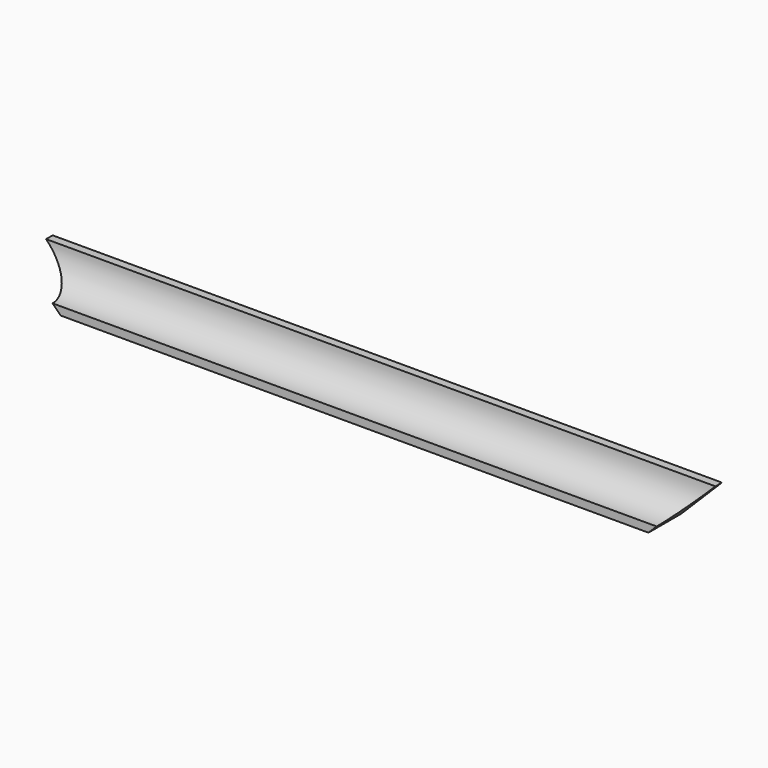
from build123d import *

# Parameters (mm, degrees)
F1_DEPTH = 520.7
F3_DEPTH = 50.8


with BuildPart() as f1:
    # F0 (on Right) → F1 (new body)
    with BuildSketch(Plane.YZ):
        with BuildLine():
            Line((-31.75, 0), (0, 0))
            Line((0, 0), (0, 31.75))
            Line((0, 31.75), (-6.35, 31.75))
            ThreePointArc((-6.35, 31.75), (-13.789488, 13.789488), (-31.75, 6.35))
            Line((-31.75, 6.35), (-31.75, 0))
        make_face()
    extrude(amount=F1_DEPTH)

    # F2 (on face) → F3 (cut)
    with BuildSketch(Plane(origin=(0, 0, 0), x_dir=(-1, 0, 0), z_dir=(0, 1, 0))):
        Polygon((0, 0), (0, 31.75), (-31.75, 0), align=None)
        Polygon((-488.95, 0), (-520.7, 31.75), (-520.7, 0), align=None)
    extrude(amount=-F3_DEPTH, mode=Mode.SUBTRACT)


solid = f1.part
